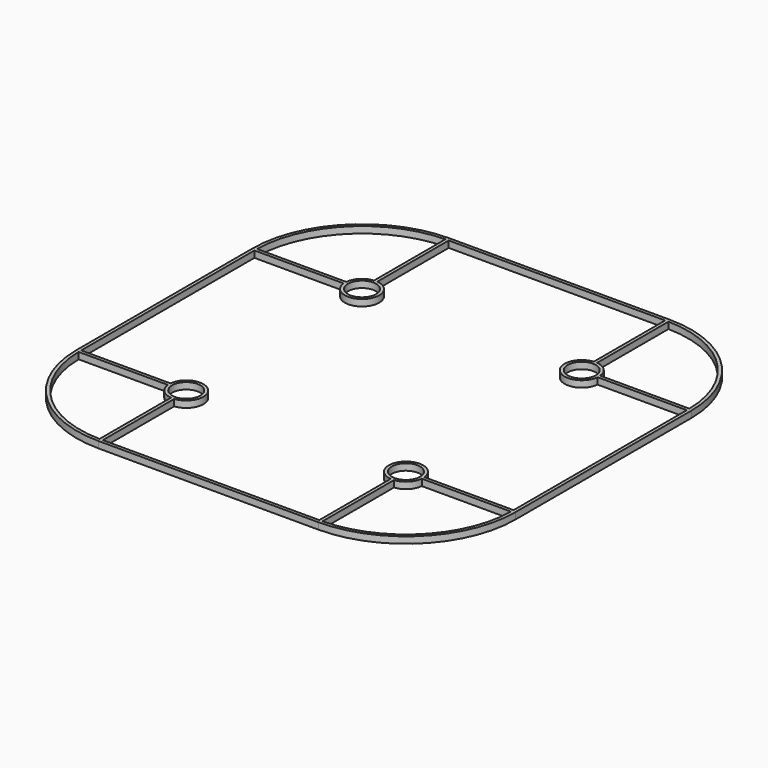
from build123d import *

# Parameters (mm, degrees)
F2_R     = 4.3
F3_DEPTH = 2


with BuildPart() as f3:
    # F2 (on Top) → F3 (new body)
    with BuildSketch(Plane.XY):
        with BuildLine():
            ThreePointArc((67.087572, 33.587572), (57.275649, 57.275649), (33.587572, 67.087572))
            Line((33.587572, 67.087572), (0, 67.087572))
            Line((0, 67.087572), (-33.587572, 67.087572))
            ThreePointArc((-33.587572, 67.087572), (-57.275649, 57.275649), (-67.087572, 33.587572))
            Line((-67.087572, 33.587572), (-67.087572, 0))
            Line((-67.087572, 0), (-67.087572, -33.587572))
            ThreePointArc((-67.087572, -33.587572), (-57.275649, -57.275649), (-33.587572, -67.087572))
            Line((-33.587572, -67.087572), (0, -67.087572))
            Line((0, -67.087572), (33.587572, -67.087572))
            ThreePointArc((33.587572, -67.087572), (57.275649, -57.275649), (67.087572, -33.587572))
            Line((67.087572, -33.587572), (67.087572, 0))
            Line((67.087572, 0), (67.087572, 33.587572))
        make_face()
        with BuildLine():
            Line((-34.087568, -38.813709), (-34.087568, -66.083726))
            ThreePointArc((-34.087568, -66.083726), (-56.568541, -56.568544), (-66.083726, -34.087572))
            Line((-66.083726, -34.087572), (-38.813708, -34.087572))
            ThreePointArc((-38.813708, -34.087572), (-37.299881, -37.299884), (-34.087568, -38.813709))
        make_face(mode=Mode.SUBTRACT)
        with Locations((-33.587572, -33.587572)):
            Circle(F2_R, mode=Mode.SUBTRACT)
        with BuildLine():
            Line((38.813709, -34.087568), (66.083726, -34.087568))
            ThreePointArc((66.083726, -34.087568), (56.568544, -56.568541), (34.087572, -66.083726))
            Line((34.087572, -66.083726), (34.087572, -38.813708))
            ThreePointArc((34.087572, -38.813708), (37.299884, -37.299881), (38.813709, -34.087568))
        make_face(mode=Mode.SUBTRACT)
        with Locations((33.587572, -33.587572)):
            Circle(F2_R, mode=Mode.SUBTRACT)
        with Locations((-33.587572, 33.587572)):
            Circle(F2_R, mode=Mode.SUBTRACT)
        with BuildLine():
            Line((-38.813709, 34.087568), (-66.083726, 34.087568))
            ThreePointArc((-66.083726, 34.087568), (-56.568544, 56.568541), (-34.087572, 66.083726))
            Line((-34.087572, 66.083726), (-34.087572, 38.813708))
            ThreePointArc((-34.087572, 38.813708), (-37.299884, 37.299881), (-38.813709, 34.087568))
        make_face(mode=Mode.SUBTRACT)
        with BuildLine():
            Line((33.087576, 66.087572), (33.087576, 38.813709))
            ThreePointArc((33.087576, 38.813709), (29.87526, 29.875263), (38.813708, 33.087572))
            Line((38.813708, 33.087572), (66.087572, 33.087572))
            Line((66.087572, 33.087572), (66.087572, 0))
            Line((66.087572, 0), (66.087572, -33.087576))
            Line((66.087572, -33.087576), (38.813709, -33.087576))
            ThreePointArc((38.813709, -33.087576), (29.875263, -29.87526), (33.087572, -38.813708))
            Line((33.087572, -38.813708), (33.087572, -66.087572))
            Line((33.087572, -66.087572), (0, -66.087572))
            Line((0, -66.087572), (-33.087576, -66.087572))
            Line((-33.087576, -66.087572), (-33.087576, -38.813709))
            ThreePointArc((-33.087576, -38.813709), (-29.87526, -29.875263), (-38.813708, -33.087572))
            Line((-38.813708, -33.087572), (-66.087572, -33.087572))
            Line((-66.087572, -33.087572), (-66.087572, 0))
            Line((-66.087572, 0), (-66.087572, 33.087576))
            Line((-66.087572, 33.087576), (-38.813709, 33.087576))
            ThreePointArc((-38.813709, 33.087576), (-29.875263, 29.87526), (-33.087572, 38.813708))
            Line((-33.087572, 38.813708), (-33.087572, 66.087572))
            Line((-33.087572, 66.087572), (0, 66.087572))
            Line((0, 66.087572), (33.087576, 66.087572))
        make_face(mode=Mode.SUBTRACT)
        with Locations((33.587572, 33.587572)):
            Circle(F2_R, mode=Mode.SUBTRACT)
        with BuildLine():
            Line((34.087568, 38.813709), (34.087568, 66.083726))
            ThreePointArc((34.087568, 66.083726), (56.568541, 56.568544), (66.083726, 34.087572))
            Line((66.083726, 34.087572), (38.813708, 34.087572))
            ThreePointArc((38.813708, 34.087572), (37.299881, 37.299884), (34.087568, 38.813709))
        make_face(mode=Mode.SUBTRACT)
    extrude(amount=F3_DEPTH)


solid = f3.part
